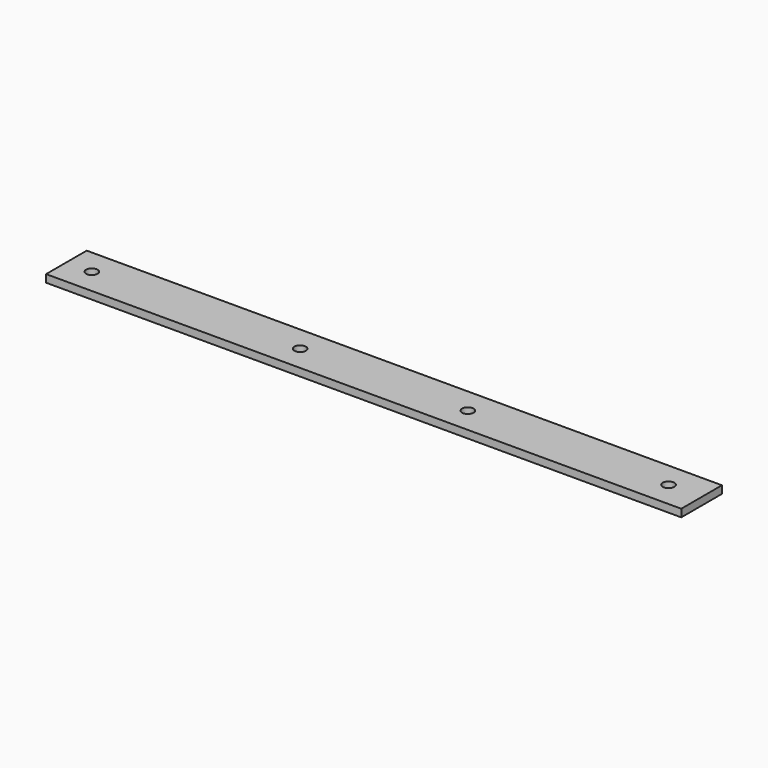
from build123d import *

# Parameters (mm, degrees)
BOX_W             = 250
BOX_H             = 20
BOX_DEPTH         = 3
CYLINDER_R        = 2.25
CYLINDER_DEPTH    = 3
CYLINDER001_R     = 2.25
CYLINDER001_DEPTH = 3
CYLINDER002_R     = 2.25
CYLINDER002_DEPTH = 3
CYLINDER003_R     = 2.25
CYLINDER003_DEPTH = 3


with BuildPart() as part:
    # Box → Box (join)
    with BuildSketch(Plane.XY):
        with Locations((125, 10)):
            Rectangle(BOX_W, BOX_H)
    extrude(amount=BOX_DEPTH)

    # Cylinder → Cylinder (cut)
    with BuildSketch(Plane(origin=(10, 10, 0), x_dir=(1, 0, 0), z_dir=(0, 0, 1))):
        Circle(CYLINDER_R)
    extrude(amount=CYLINDER_DEPTH, mode=Mode.SUBTRACT)

    # Cylinder001 → Cylinder001 (cut)
    with BuildSketch(Plane(origin=(237, 10, 0), x_dir=(1, 0, 0), z_dir=(0, 0, 1))):
        Circle(CYLINDER001_R)
    extrude(amount=CYLINDER001_DEPTH, mode=Mode.SUBTRACT)

    # Cylinder002 → Cylinder002 (cut)
    with BuildSketch(Plane(origin=(92, 10, 0), x_dir=(1, 0, 0), z_dir=(0, 0, 1))):
        Circle(CYLINDER002_R)
    extrude(amount=CYLINDER002_DEPTH, mode=Mode.SUBTRACT)

    # Cylinder003 → Cylinder003 (cut)
    with BuildSketch(Plane(origin=(158, 10, 0), x_dir=(1, 0, 0), z_dir=(0, 0, 1))):
        Circle(CYLINDER003_R)
    extrude(amount=CYLINDER003_DEPTH, mode=Mode.SUBTRACT)


solid = part.part
